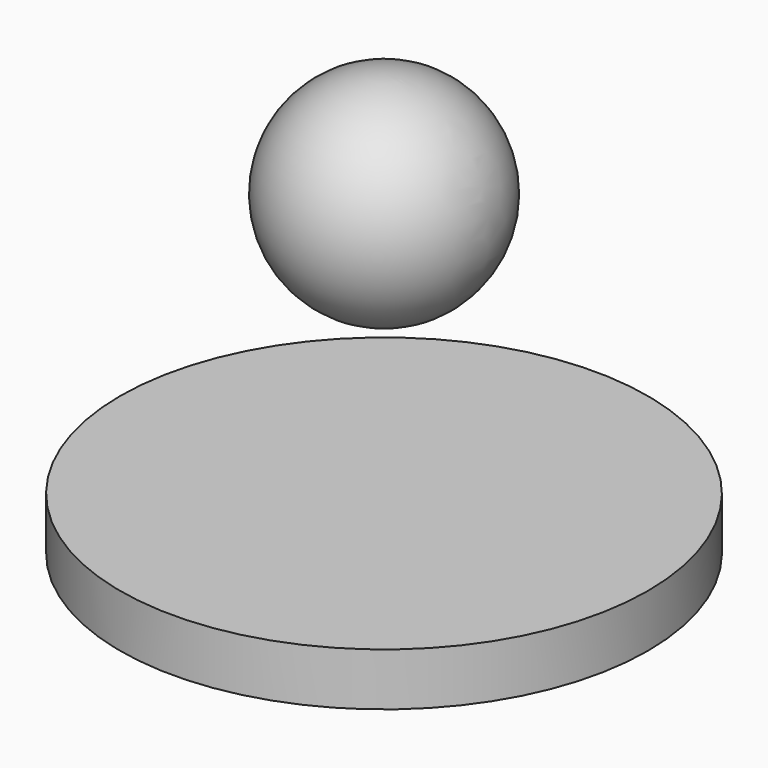
from build123d import *

# Parameters (mm, degrees)
F0_W = 5
F0_H = 1


with BuildPart() as f1:
    # F0 (on Front) → F1 (revolve)
    with BuildSketch(Plane.XZ):
        with BuildLine():
            Line((0, 2), (0, -2))
            ThreePointArc((0, -2), (2, 0), (0, 2))
        make_face()
        with Locations((2.5, -5.5)):
            Rectangle(F0_W, F0_H)
    revolve(axis=Axis((0, 0, 0), (0, 0, -1)))


solid = f1.part
